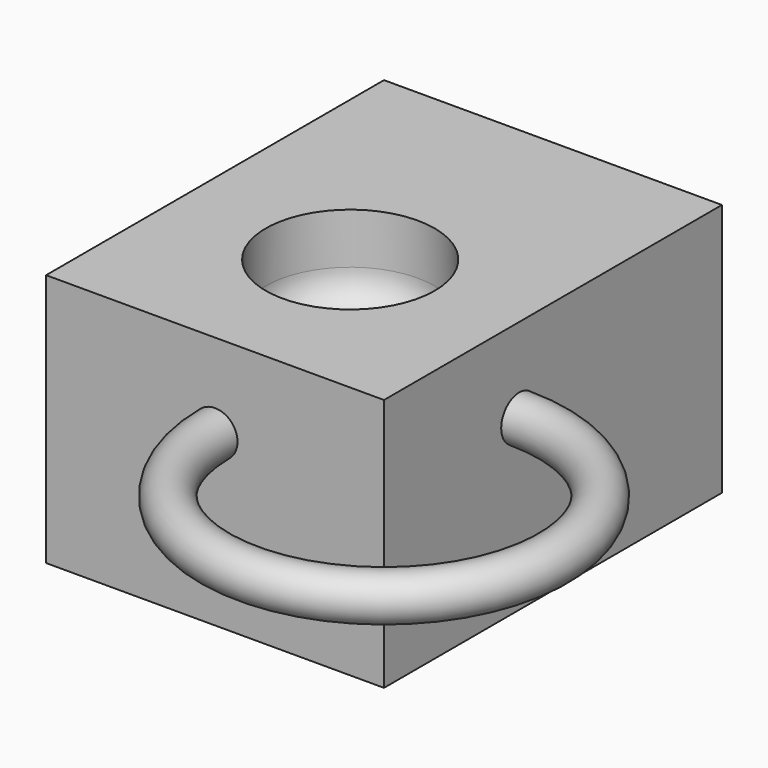
from build123d import *

# Parameters (mm, degrees)
F0_W     = 20
F0_H     = 15
F1_DEPTH = 25
F2_R     = 5
F3_DEPTH = 5
F4_R     = 2
F5_R     = 1.3291403614
F6_ANGLE = 270


with BuildPart() as f1:
    # F0 (on Front) → F1 (new body)
    with BuildSketch(Plane.XZ):
        with Locations((10, 7.5)):
            Rectangle(F0_W, F0_H)
    extrude(amount=F1_DEPTH)

    # F2 (on face) → F3 (cut)
    with BuildSketch(Plane.XY.offset(15)):
        with Locations((10, -15)):
            Circle(F2_R)
    extrude(amount=-F3_DEPTH, mode=Mode.SUBTRACT)

    # F4
    f4_edges = [f1.edges().sort_by_distance(p)[0] for p in [
        (5, -15, 10),
    ]]
    fillet(f4_edges, radius=F4_R)


with BuildPart() as f6:
    # F5 (on face) → F6 (revolve)
    with BuildSketch(Plane.XZ.offset(25)):
        with Locations((10, 10)):
            Circle(F5_R)
    revolve(axis=Axis((20, -25, 7.5), (0, 0, 1)), revolution_arc=F6_ANGLE)


solid = Compound([f1.part, f6.part])
